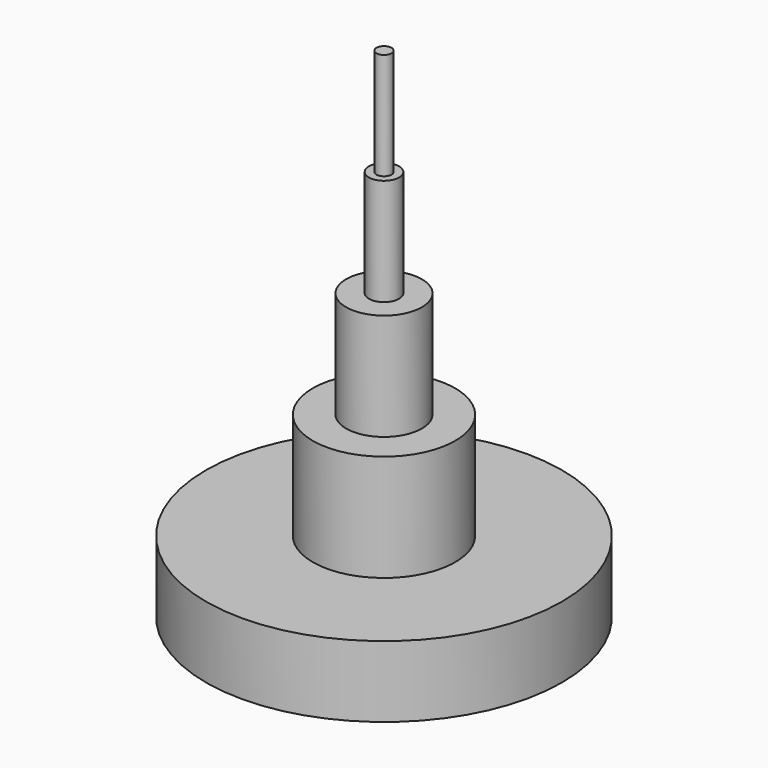
from build123d import *

# Parameters (mm, degrees)
F2_R     = 27.048464
F3_DEPTH = 76.2
F4_R     = 10.765067
F5_DEPTH = 76.2
F6_R     = 5.378354
F7_DEPTH = 76.2


with BuildPart() as f1:
    # F0 (on Front) → F1 (revolve)
    with BuildSketch(Plane.XZ):
        Polygon((8.565648, -9.424497), (-67.634352, -9.424497), (-67.634352, -60.224497), (-16.834352, -60.224497), (-16.834352, -34.824497), (33.965648, -34.824497), (33.965648, -60.224497), (59.365648, -60.224497), (59.365648, 66.775503), (8.565648, 66.775503), align=None)
    revolve(axis=Axis((59.365648, 0, 3.275503), (0, 0, 1)))

    # F2 (on face) → F3 (join)
    with BuildSketch(Plane.XY.offset(66.775503)):
        with Locations((59.365648, 0)):
            Circle(F2_R)
    extrude(amount=F3_DEPTH)

    # F4 (on face) → F5 (join)
    with BuildSketch(Plane.XY.offset(142.975503)):
        with Locations((59.365648, 0)):
            Circle(F4_R)
    extrude(amount=F5_DEPTH)

    # F6 (on face) → F7 (join)
    with BuildSketch(Plane.XY.offset(219.175503)):
        with Locations((59.365648, 0)):
            Circle(F6_R)
    extrude(amount=F7_DEPTH)


solid = f1.part
